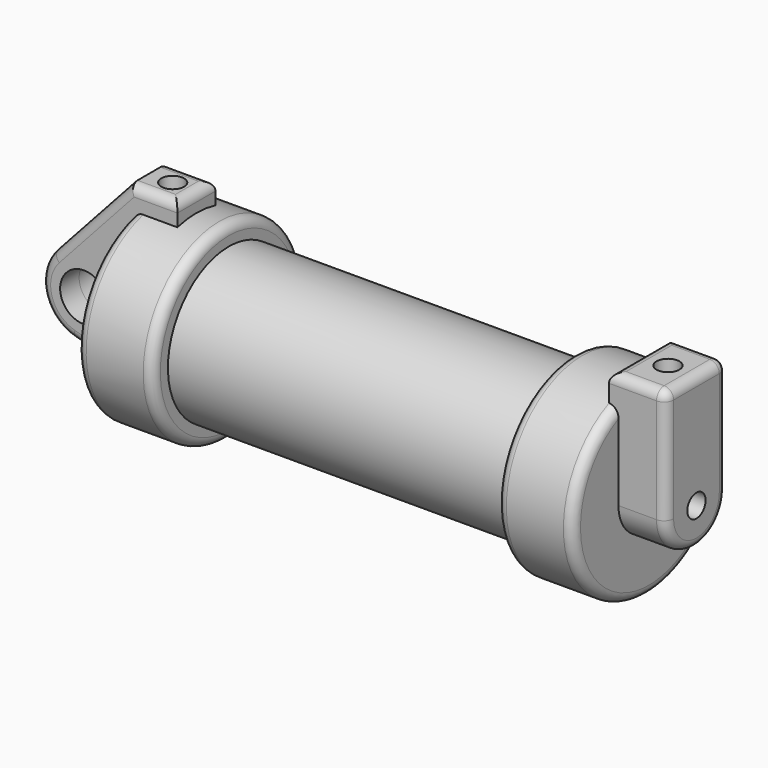
from build123d import *

# Parameters (mm, degrees)
F0_W          = 5.842
F0_H          = 12.7
F0_R          = 3.175
F2_DEPTH      = 3.175
F2_DEPTH_BACK = 3.175
F3_R          = 1.524
F4_DEPTH      = 6.35
F4_DEPTH_BACK = 1.27
F6_R          = 1.524
F7_DEPTH      = 17.78
F5_R          = 1.524
F8_DEPTH      = 10.414
F9_R          = 1.27
F9_2_R        = 1.27
F10_R         = 1.27


with BuildPart() as f1:
    # F0 (on Front) → F1 (revolve)
    with BuildSketch(Plane.XZ):
        Polygon((5.842, 12.7), (5.842, 0), (66.294, 0), (66.294, 12.7), (56.134, 12.7), (56.134, 10.16), (10.16, 10.16), (10.16, 12.7), align=None)
        with Locations((2.921, 6.35)):
            Rectangle(F0_W, F0_H)
    revolve(axis=Axis((33.147, 0, 0), (-1, 0, 0)))

    # F3 (on face) → F4 (join, two sides)
    with BuildSketch(Plane.YZ.offset(66.294)) as f4_sk:
        with BuildLine():
            ThreePointArc((-5.08, 0), (0, -5.08), (5.08, 0))
            ThreePointArc((5.08, 0), (0, 5.08), (-5.08, 0))
        make_face()
        Circle(F3_R, mode=Mode.SUBTRACT)
        with BuildLine():
            ThreePointArc((-5.08, 0), (0, 5.08), (5.08, 0))
            Line((5.08, 0), (5.08, 15.24))
            Line((5.08, 15.24), (-5.08, 15.24))
            Line((-5.08, 15.24), (-5.08, 0))
        make_face()
    extrude(amount=F4_DEPTH)
    extrude(f4_sk.sketch, amount=-F4_DEPTH_BACK)

    # F5 (on face) → F8 (cut)
    with BuildSketch(Plane.XY.offset(15.24)):
        with Locations((68.834, 0)):
            Circle(F5_R)
    extrude(amount=-F8_DEPTH, mode=Mode.SUBTRACT)

    # F9#2
    f9_2_edges = [f1.edges().sort_by_distance(p)[0] for p in [
        (0, 0, -12.7),
        (10.16, 0, -12.7),
    ]]
    fillet(f9_2_edges, radius=F9_2_R)

    # F10
    f10_edges = [f1.edges().sort_by_distance(p)[0] for p in [
        (72.644, -5.08, 7.62),
        (72.644, 0, -5.08),
        (72.644, 5.08, 7.62),
        (72.644, 0, 15.24),
        (65.024, 0, 15.24),
        (68.834, -5.08, 15.24),
        (68.834, 5.08, 15.24),
        (66.294, 0, -12.7),
        (56.134, 0, -12.7),
    ]]
    fillet(f10_edges, radius=F10_R)


with BuildPart() as f2:
    # F0 (on Front) → F2 (new body, two sides)
    with BuildSketch(Plane.XZ) as f2_sk:
        with BuildLine():
            Line((-0.9398, 0), (0, 0))
            Line((0, 0), (0, 12.7))
            Line((0, 12.7), (5.842, 12.7))
            Line((5.842, 12.7), (5.842, 15.24))
            Line((5.842, 15.24), (-0.508, 15.24))
            Line((-0.508, 15.24), (-10.8806298187, 3.8475430269))
            ThreePointArc((-10.8806298187, 3.8475430269), (-4.5919612295, 5.3297205562), (-0.9398, 0))
        make_face()
        with BuildLine():
            ThreePointArc((-8.1826630726, -5.5069827884), (-3.1957909266, -4.5493385486), (-0.9398, 0))
            ThreePointArc((-0.9398, 0), (-4.5919612295, 5.3297205562), (-10.8806298187, 3.8475430269))
            ThreePointArc((-10.8806298187, 3.8475430269), (-12.1459778134, -1.5837270034), (-8.1826630726, -5.5069827884))
        make_face()
        with Locations((-6.6548, 0)):
            Circle(F0_R, mode=Mode.SUBTRACT)
        with BuildLine():
            Line((5.842, 0), (0, 0))
            Line((0, 0), (-0.9398, 0))
            ThreePointArc((-0.9398, 0), (-3.1957909266, -4.5493385486), (-8.1826630726, -5.5069827884))
            Line((-8.1826630726, -5.5069827884), (5.842, -9.398))
            Line((5.842, -9.398), (5.842, 0))
        make_face()
        with Locations((2.921, 6.35)):
            Rectangle(F0_W, F0_H)
    extrude(amount=F2_DEPTH)
    extrude(f2_sk.sketch, amount=-F2_DEPTH_BACK)

    # F6 (on face) → F7 (cut)
    with BuildSketch(Plane.XY.offset(15.24)):
        with Locations((2.667, 0)):
            Circle(F6_R)
    extrude(amount=-F7_DEPTH, mode=Mode.SUBTRACT)

    # F9
    f9_edges = [f2.edges().sort_by_distance(p)[0] for p in [
        (-5.694315, -3.175, 9.543772),
        (-5.694315, 3.175, 9.543772),
        (-12.145978, 3.175, -1.583727),
        (-1.170332, -3.175, -7.452491),
        (-12.145978, -3.175, -1.583727),
        (-1.170332, 3.175, -7.452491),
        (2.667, -3.175, 15.24),
        (2.667, 3.175, 15.24),
        (5.842, 0, 15.24),
    ]]
    fillet(f9_edges, radius=F9_R)


solid = Compound([f1.part, f2.part])
